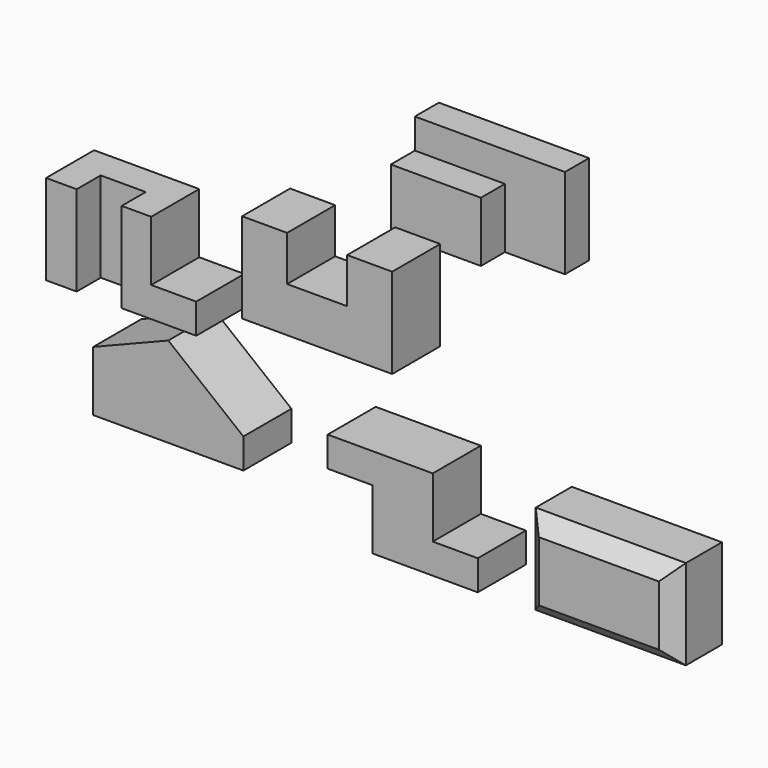
from build123d import *

# Parameters (mm, degrees)
F1_DEPTH  = 101.6
F3_DEPTH  = 254
F4_W      = 50.8
F4_H      = 101.6
F5_DEPTH  = 101.6
F7_DEPTH  = 101.6
F8_W      = 76.2
F8_H      = 50.8
F9_DEPTH  = 152.4
F11_DEPTH = 101.6
F13_DEPTH = 101.6
F14_W     = 254
F14_H     = 152.4
F15_DEPTH = 101.6
F16_SIZE  = 25.4


with BuildPart() as f1:
    # F0 (on Front) → F1 (new body)
    with BuildSketch(Plane.XZ):
        Polygon((0, 152.4), (0, 0), (254, 0), (254, 152.4), (177.8, 152.4), (177.8, 76.2), (76.2, 76.2), (76.2, 152.4), align=None)
    extrude(amount=F1_DEPTH)


with BuildPart() as f3:
    # F2 (on Right) → F3 (new body)
    with BuildSketch(Plane.YZ):
        Polygon((212.996044, 101.6), (212.996044, 0), (314.596044, 0), (314.596044, 152.4), (263.796044, 152.4), (263.796044, 101.6), align=None)
    extrude(amount=F3_DEPTH)

    # F4 (on face) → F5 (cut)
    with BuildSketch(Plane.YZ.offset(254)):
        with Locations((238.396044, 50.8)):
            Rectangle(F4_W, F4_H)
    extrude(amount=-F5_DEPTH, mode=Mode.SUBTRACT)


with BuildPart() as f7:
    # F6 (on Front) → F7 (new body)
    with BuildSketch(Plane.XZ):
        Polygon((-280.751735, 101.6), (-331.551735, 101.6), (-331.551735, -50.8), (-77.551735, -50.8), (-77.551735, 0), (-153.751735, 0), (-153.751735, 101.6), align=None)
    extrude(amount=F7_DEPTH)

    # F8 (on face) → F9 (cut)
    with BuildSketch(Plane.XY.offset(101.6)):
        with Locations((-241.695796, -76.2)):
            Rectangle(F8_W, F8_H)
    extrude(amount=-F9_DEPTH, mode=Mode.SUBTRACT)


with BuildPart() as f11:
    # F10 (on Front) → F11 (new body)
    with BuildSketch(Plane.XZ):
        Polygon((322.628757, -125.659592), (144.828757, -125.659592), (144.828757, -176.459592), (221.028757, -176.459592), (221.028757, -278.059592), (398.828757, -278.059592), (398.828757, -227.259592), (322.628757, -227.259592), align=None)
    extrude(amount=F11_DEPTH)


with BuildPart() as f13:
    # F12 (on Front) → F13 (new body)
    with BuildSketch(Plane.XZ):
        Polygon((-124.783009, -73.280629), (-251.783008, -124.080629), (-251.783008, -225.680629), (2.216992, -225.680629), (2.216992, -174.880629), align=None)
    extrude(amount=F13_DEPTH)


with BuildPart() as f15:
    # F14 (on Front) → F15 (new body)
    with BuildSketch(Plane.XZ):
        with Locations((603.545263, -213.058971)):
            Rectangle(F14_W, F14_H)
    extrude(amount=F15_DEPTH)

    # F16
    f16_edges = [f15.edges().sort_by_distance(p)[0] for p in [
        (603.545263, -101.6, -136.858971),
        (476.545263, -101.6, -213.058971),
        (603.545263, -101.6, -289.258971),
        (730.545263, -101.6, -213.058971),
    ]]
    chamfer(f16_edges, length=F16_SIZE)


solid = Compound([f1.part, f3.part, f7.part, f11.part, f13.part, f15.part])
